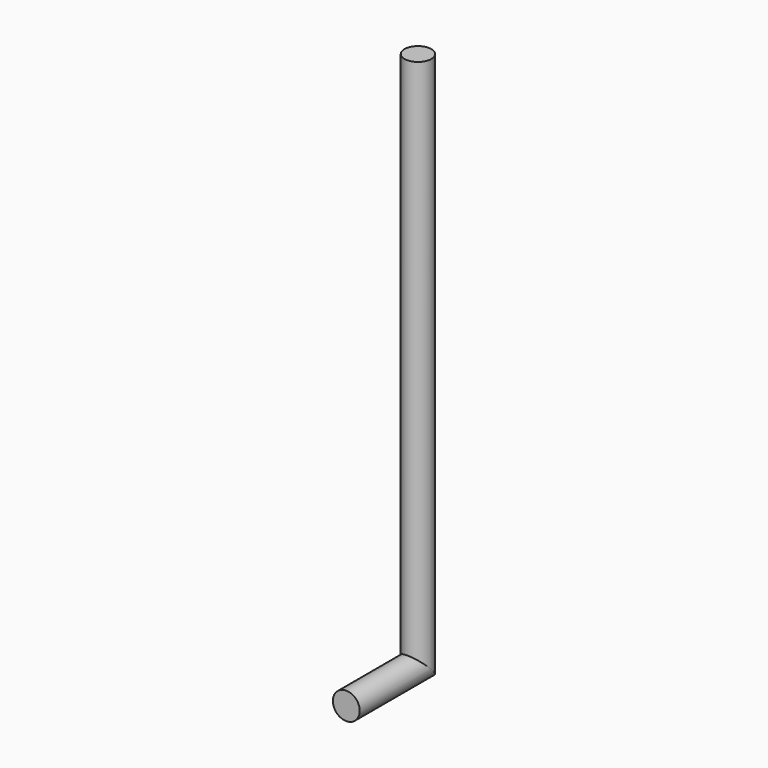
from build123d import *

# Parameters (mm, degrees)
F0_R = 15


with BuildPart() as f2:
    # F2: sweep along a path in F1
    with BuildLine(Plane.YZ) as f2_path:
        Line((0, 0), (100, 0))
        Line((100, 0), (100, 600))
    # F0 (on Front) → F2 (sweep)
    with BuildSketch(Plane.XZ):
        Circle(F0_R)
    sweep(path=f2_path.line, transition=Transition.RIGHT)


solid = f2.part
